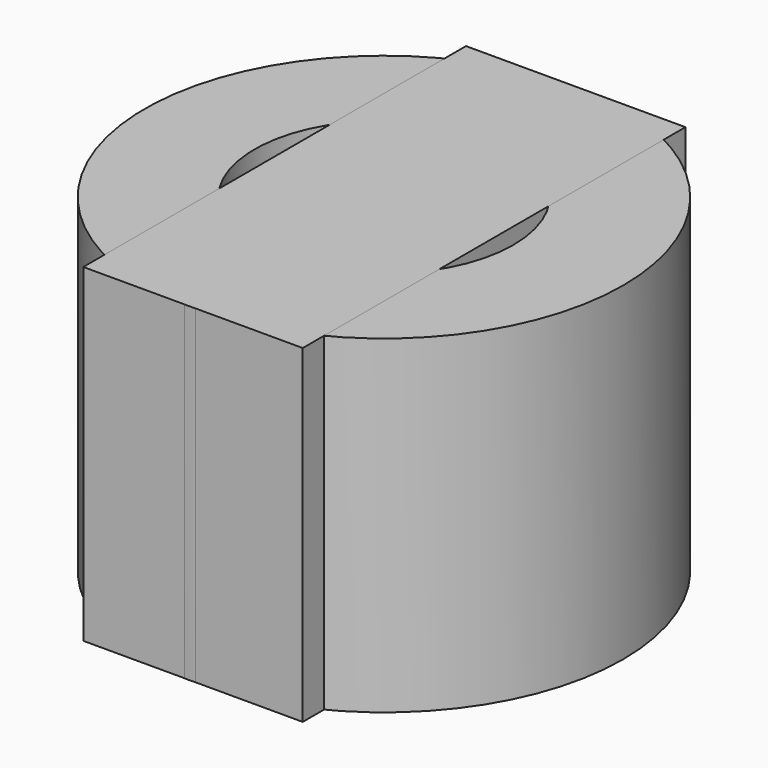
from build123d import *

# Parameters (mm, degrees)
SKETCH_R     = 2.18
SKETCH_R_2   = 1.18
PAD_DEPTH    = 3
SKETCH001_W  = 2
SKETCH001_H  = 4.36
PAD001_DEPTH = 3


with BuildPart() as body:
    # Sketch → Pad (new body)
    with BuildSketch(Plane.XY):
        with Locations((10, 10)):
            Circle(SKETCH_R)
        with Locations((10, 10)):
            Circle(SKETCH_R_2, mode=Mode.SUBTRACT)
    extrude(amount=PAD_DEPTH)


with BuildPart() as body001:
    # Sketch001 → Pad001 (new body)
    with BuildSketch(Plane.XY):
        with Locations((10.001777, 10.002387)):
            Rectangle(SKETCH001_W, SKETCH001_H)
    extrude(amount=PAD001_DEPTH)


solid = Compound([body.part, body001.part])
